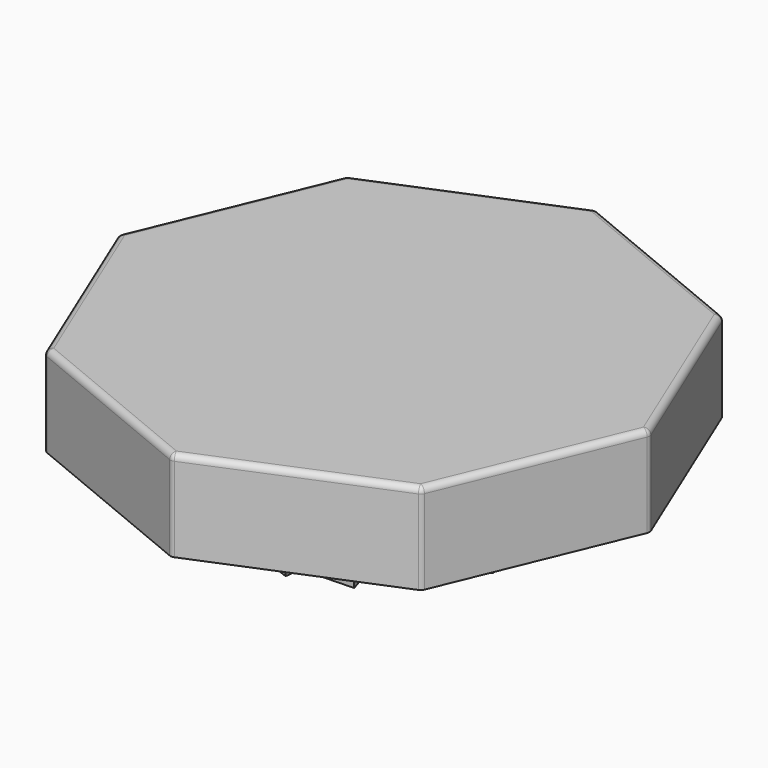
from build123d import *

# Parameters (mm, degrees)
PAD003_DEPTH          = 15
PAD007_DEPTH          = 10
POLARPATTERN006_COUNT = 10
PAD008_DEPTH          = 10
POLARPATTERN007_COUNT = 16
FILLET001_R           = 1


with BuildPart() as part:
    # Sketch007 → Pad003 (new body)
    with BuildSketch(Plane.XY.offset(14)):
        Polygon((0, 44.072464), (-31.163938, 31.163938), (-44.072464, 0), (-31.163938, -31.163938), (0, -44.072464), (31.163938, -31.163938), (44.072464, 0), (31.163938, 31.163938), align=None)
    extrude(amount=PAD003_DEPTH)

    # Sketch015 (on Face9 of Pad003) → Pad007 (join)
    with BuildSketch(Plane(origin=(0, 0, 14), x_dir=(1, 0, 0), z_dir=(0, 0, -1))):
        Polygon((-10.494645, 8.088568), (-7.65128, 7.190822), (-7.65128, -1.233051), (-10.494645, -0.335305), align=None)
    pad007 = extrude(amount=PAD007_DEPTH)

    # PolarPattern006: Pad007 ×10 about axis
    polarpattern006_axis = Axis((0, 0, 14), (0, 0, -1))
    for i in range(1, POLARPATTERN006_COUNT):
        add(pad007.rotate(polarpattern006_axis, i * 360 / POLARPATTERN006_COUNT))

    # Sketch016 (on Face4 of PolarPattern006) → Pad008 (join)
    with BuildSketch(Plane(origin=(0, 0, 14), x_dir=(1, 0, 0), z_dir=(0, 0, -1))):
        Polygon((-24.069083, 2.956647), (-20.580814, -6.219331), (-17.772233, -5.975805), (-21.260501, 3.200173), align=None)
    pad008 = extrude(amount=PAD008_DEPTH)

    # PolarPattern007: Pad008 ×16 about axis
    polarpattern007_axis = Axis((0, 0, 14), (0, 0, -1))
    for i in range(1, POLARPATTERN007_COUNT):
        add(pad008.rotate(polarpattern007_axis, i * 360 / POLARPATTERN007_COUNT))

    # Fillet001
    fillet001_edges = [part.edges().sort_by_distance(p)[0] for p in [
        (-37.618201, 15.581969, 29),
        (-31.163938, 31.163938, 21.5),
        (-44.072464, 0, 21.5),
        (-37.618201, -15.581969, 29),
        (-31.163938, -31.163938, 21.5),
        (-15.581969, -37.618201, 29),
        (-15.581969, 37.618201, 29),
        (0, 44.072464, 21.5),
        (15.581969, 37.618201, 29),
        (0, -44.072464, 21.5),
        (15.581969, -37.618201, 29),
        (31.163938, -31.163938, 21.5),
        (37.618201, -15.581969, 29),
        (44.072464, 0, 21.5),
        (31.163938, 31.163938, 21.5),
        (37.618201, 15.581969, 29),
    ]]
    fillet(fillet001_edges, radius=FILLET001_R)


solid = part.part
